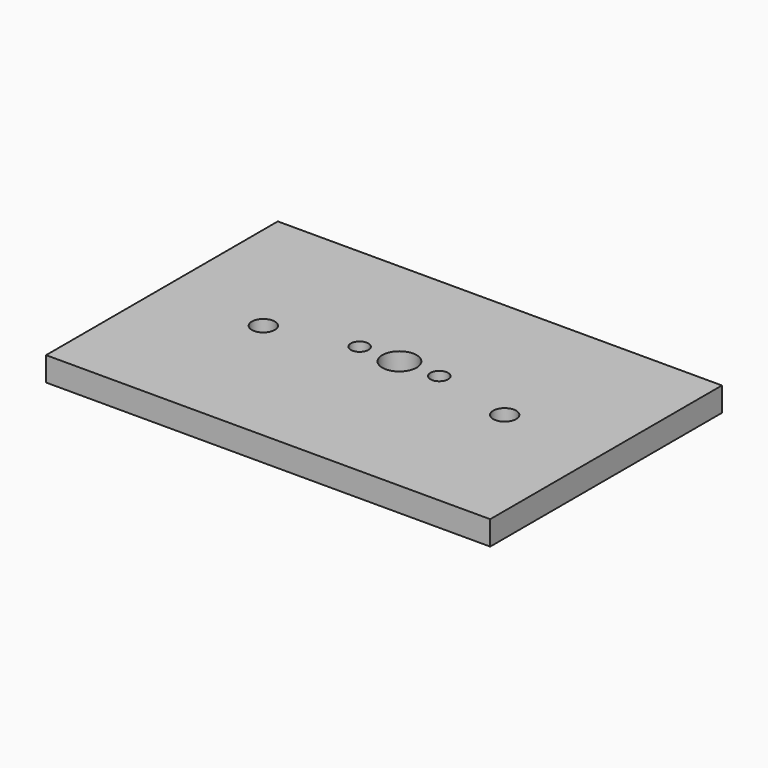
from build123d import *

# Parameters (mm, degrees)
F0_W     = 92
F0_H     = 60
F1_DEPTH = 5
F2_R     = 3.55
F2_R_2   = 1.825
F2_R_3   = 2.375
F3_DEPTH = 25


with BuildPart() as f1:
    # F0 (on Top) → F1 (new body)
    with BuildSketch(Plane.XY):
        Rectangle(F0_W, F0_H)
    extrude(amount=F1_DEPTH)

    # F2 (on face) → F3 (cut)
    with BuildSketch(Plane.XY.offset(5)):
        with Locations((0, 4)):
            Circle(F2_R)
        with Locations((-8.25, 4)):
            Circle(F2_R_2)
        with Locations((8.25, 4)):
            Circle(F2_R_2)
        with Locations((-25, 0)):
            Circle(F2_R_3)
        with Locations((25, 0)):
            Circle(F2_R_3)
    extrude(amount=-F3_DEPTH, mode=Mode.SUBTRACT)


solid = f1.part
